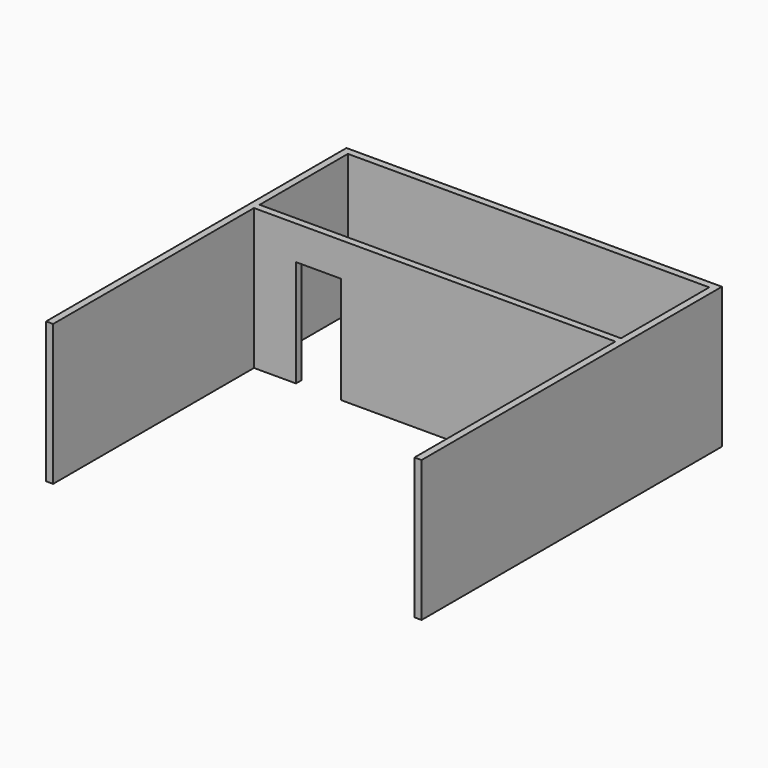
from build123d import *

# Parameters (mm, degrees)
F0_W     = 7700
F0_H     = 150
F1_DEPTH = 3000
F2_W     = 960.7286453247
F2_H     = 2276.6757011414
F3_DEPTH = 150


with BuildPart() as f1:
    # F0 (on Top) → F1 (new body)
    with BuildSketch(Plane.XY):
        Polygon((4000, -4000), (4000, 4000), (-4000, 4000), (-4000, -4000), (-3850, -4000), (-3850, 1350), (-3850, 1500), (-3850, 3850), (3850, 3850), (3850, 1500), (3850, 1350), (3850, -4000), align=None)
        with Locations((0, 1425)):
            Rectangle(F0_W, F0_H)
    extrude(amount=F1_DEPTH)

    # F2 (on face) → F3 (cut, through all)
    with BuildSketch(Plane.XZ.offset(-1350)):
        with Locations((-2475.0974178314, 1138.3378505707)):
            Rectangle(F2_W, F2_H)
    extrude(amount=-F3_DEPTH, mode=Mode.SUBTRACT)


solid = f1.part
